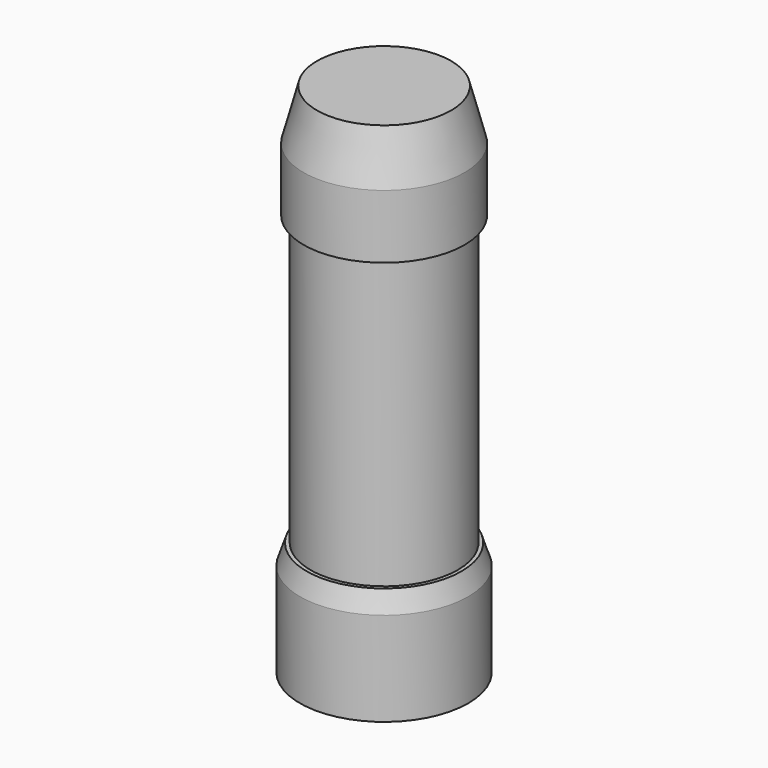
from build123d import *

# Parameters (mm, degrees)
F2_SIZE2 = 0.75
F2_SIZE  = 0.2
F3_SIZE2 = 0.3
F3_SIZE  = 0.1


with BuildPart() as f1:
    # F0 (on Front) → F1 (revolve)
    with BuildSketch(Plane.XZ):
        Polygon((1.2, 7.7), (0, 7.7), (0, 0), (1.255, 0), (1.255, 1.7), (1.1, 1.7), (1.1, 6), (1.2, 6), align=None)
    revolve(axis=Axis((0, 0, 3.85), (0, 0, -1)))

    # F2
    f2_edges = [f1.edges().sort_by_distance(p)[0] for p in [
        (-1.2, 0, 7.7),
    ]]
    chamfer(f2_edges, length=F2_SIZE, length2=F2_SIZE2)

    # F3
    f3_edges = [f1.edges().sort_by_distance(p)[0] for p in [
        (-1.255, 0, 1.7),
    ]]
    chamfer(f3_edges, length=F3_SIZE, length2=F3_SIZE2)


solid = f1.part
